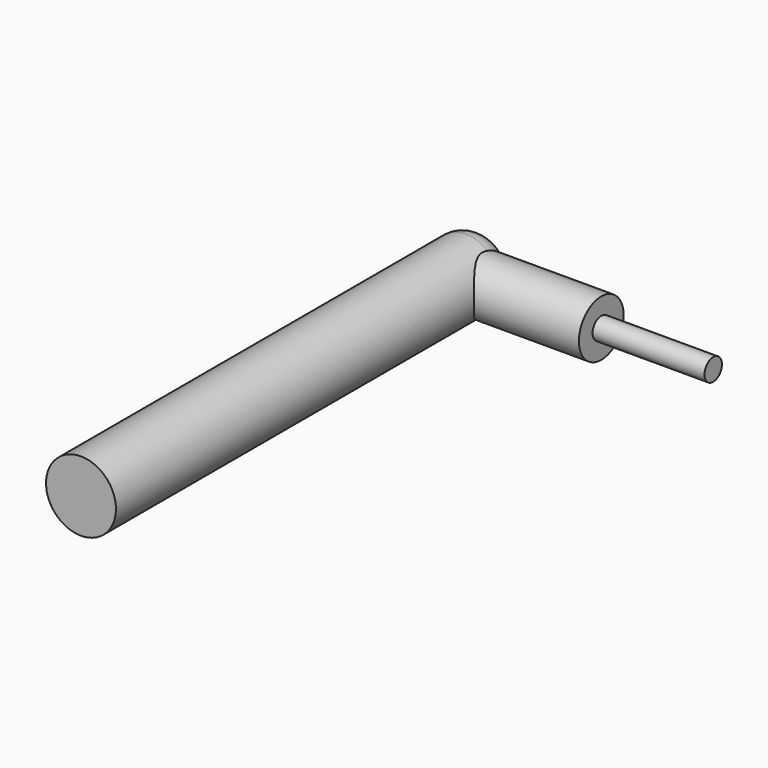
from build123d import *

# Parameters (mm, degrees)
F0_R     = 7.9375
F1_DEPTH = 114.3
F2_R     = 6.35
F3_DEPTH = 31.75
F4_R     = 5.08
F5_R     = 2.476668
F6_DEPTH = 25.4


with BuildPart() as f1:
    # F0 (on Front) → F1 (new body)
    with BuildSketch(Plane.XZ):
        Circle(F0_R)
    extrude(amount=F1_DEPTH)

    # F4
    f4_edges = [f1.edges().sort_by_distance(p)[0] for p in [
        (-7.9375, 0, 0),
    ]]
    fillet(f4_edges, radius=F4_R)


with BuildPart() as f3:
    # F2 (on Right) → F3 (new body)
    with BuildSketch(Plane.YZ):
        with Locations((-6.35, 0)):
            Circle(F2_R)
    extrude(amount=F3_DEPTH)

    # F5 (on face) → F6 (join)
    with BuildSketch(Plane.YZ.offset(31.75)):
        with Locations((-6.35, 0)):
            Circle(F5_R)
    extrude(amount=F6_DEPTH)


solid = Compound([f1.part, f3.part])
